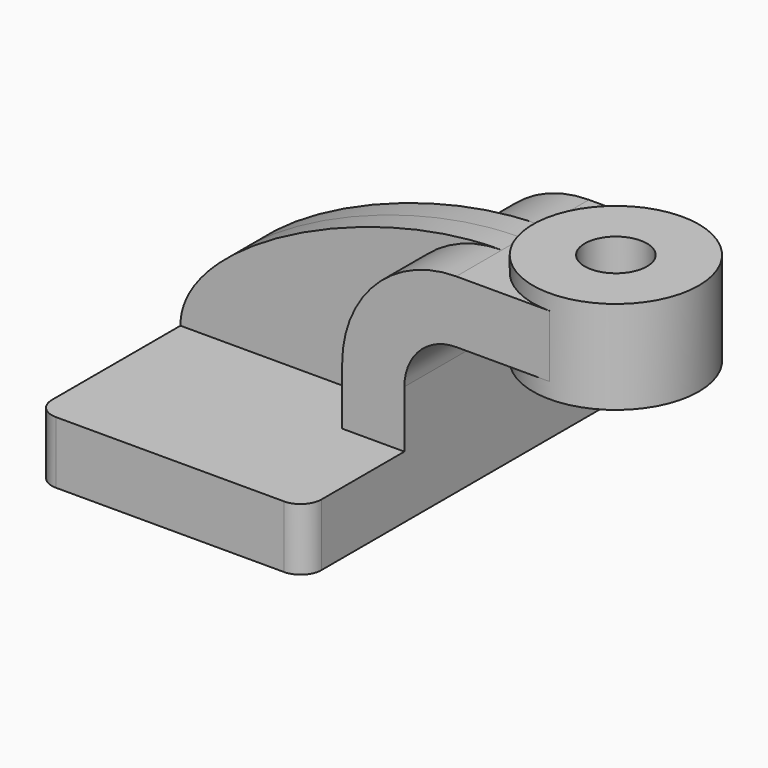
from build123d import *

# Parameters (mm, degrees)
F1_DEPTH = 63.5
F2_DEPTH = 25.4
F3_DEPTH = 7.9375
F5_R     = 6.35
F7_D     = 19.05


with BuildPart() as f1:
    # F0 (on Front) → F1 (new body, symmetric)
    with BuildSketch(Plane.XZ):
        Polygon((-41.275, -9.525), (41.275, -9.525), (41.275, 9.525), (22.225, 9.525), (-41.275, 9.525), align=None)
    extrude(amount=F1_DEPTH, both=True)

    # F0 (on Front) → F2 (join, symmetric)
    with BuildSketch(Plane.XZ):
        with BuildLine():
            Line((22.225, 9.525), (41.275, 9.525))
            Line((41.275, 9.525), (41.275, 27.0002))
            ThreePointArc((41.275, 27.0002), (45.92468, 38.22552), (57.15, 42.8752))
            Line((57.15, 42.8752), (60.325, 42.8752))
            Line((60.325, 42.8752), (60.325, 61.9252))
            Line((60.325, 61.9252), (57.15, 61.9252))
            ThreePointArc((57.15, 61.9252), (32.454296, 51.695904), (22.225, 27.0002))
            Line((22.225, 27.0002), (22.225, 9.525))
        make_face()
        Polygon((85.725, 61.9252), (60.325, 61.9252), (60.325, 42.8752), (85.725, 42.8752), (85.725, 52.3875), align=None)
    extrude(amount=F2_DEPTH, both=True)

    # F0 (on Front) → F3 (join, symmetric)
    with BuildSketch(Plane.XZ):
        with BuildLine():
            add(Edge.make_bspline(
                [(-41.275, 9.525), (-41.461322, 33.962093), (16.207486, 62.256526), (57.15, 61.9252)],
                knots=[0, 0, 0, 0, 111.504536, 111.504536, 111.504536, 111.504536], degree=3))
            Line((-41.275, 9.525), (22.225, 9.525))
            Line((22.225, 9.525), (22.225, 27.0002))
            ThreePointArc((22.225, 27.0002), (32.454296, 51.695904), (57.15, 61.9252))
        make_face()
    extrude(amount=F3_DEPTH, both=True)

    # F0 (on Front) → F4 (revolve)
    with BuildSketch(Plane.XZ):
        Polygon((85.725, 66.675), (85.725, 61.9252), (85.725, 52.3875), (85.725, 42.8752), (85.725, 38.1), (111.125, 38.1), (111.125, 66.675), align=None)
    revolve(axis=Axis((85.725, 0, 57.15635), (0, 0, 1)))

    # F5
    f5_edges = [f1.edges().sort_by_distance(p)[0] for p in [
        (41.275, -63.5, 0),
        (-41.275, -63.5, 0),
        (41.275, 63.5, 0),
        (-41.275, 63.5, 0),
    ]]
    fillet(f5_edges, radius=F5_R)

    # F7 (through all)
    with Locations(Plane.XY.offset(66.675)):
        with Locations((85.725, 0)):
            Hole(F7_D / 2)


solid = f1.part
